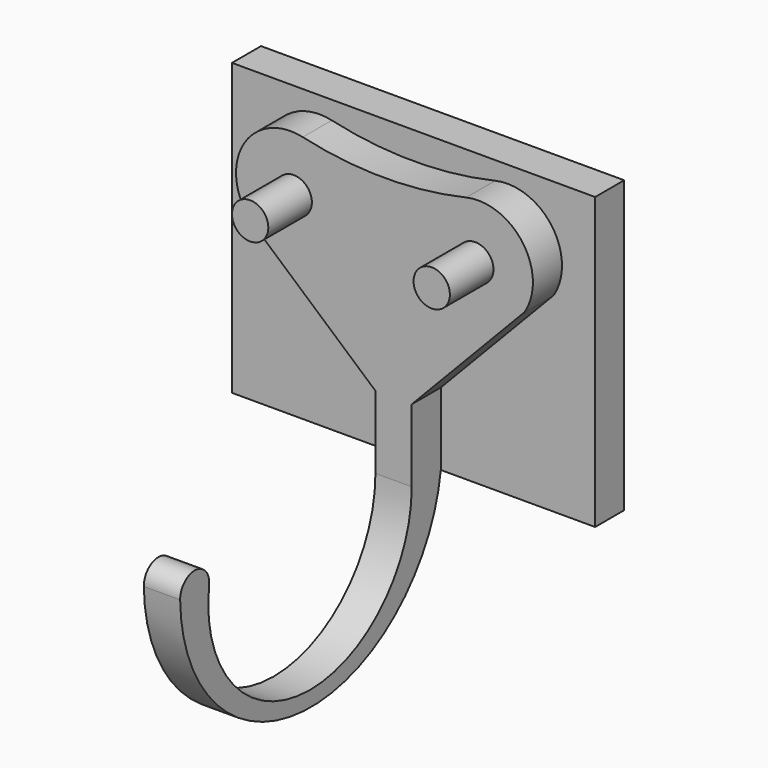
from build123d import *

# Parameters (mm, degrees)
SKETCH_W     = 20
SKETCH_H     = 16
PAD_DEPTH    = 2
PAD001_DEPTH = 2
SKETCH004_R  = 1
PAD002_DEPTH = 3
SKETCH005_W  = 2
SKETCH005_H  = 1
PAD003_DEPTH = 2
PAD004_DEPTH = 2


with BuildPart() as part:
    # Sketch → Pad (new body)
    with BuildSketch(Plane.XZ):
        with Locations((10, 8)):
            Rectangle(SKETCH_W, SKETCH_H)
    extrude(amount=PAD_DEPTH)

    # Sketch001 (on Face6 of Pad) → Pad001 (join)
    with BuildSketch(Plane.XZ.offset(2)):
        with BuildLine():
            ThreePointArc((17.72495, 10.5), (17.610738, 13.825239), (14.497831, 15))
            ThreePointArc((5.497831, 15), (9.997831, 14.487175), (14.497831, 15))
            ThreePointArc((5.497831, 15), (2.18979, 13.514663), (2.728727, 9.928732))
            Line((9.5, 4), (2.728727, 9.928732))
            Line((9.5, 4), (9.5, 1))
            Line((9.5, 1), (11.5, 1))
            Line((11.5, 1), (11.5, 4))
            Line((11.5, 4), (17.72495, 10.5))
        make_face()
    extrude(amount=PAD001_DEPTH)

    # Sketch004 (on Face15 of Pad001) → Pad002 (join)
    with BuildSketch(Plane.XZ.offset(4)):
        with Locations((5, 12)):
            Circle(SKETCH004_R)
        with Locations((15, 12)):
            Circle(SKETCH004_R)
    extrude(amount=PAD002_DEPTH)

    # Sketch005 (on Face5 of Pad002) → Pad003 (join)
    with BuildSketch(Plane.XZ.offset(2)):
        with Locations((10.5, 0.5)):
            Rectangle(SKETCH005_W, SKETCH005_H)
    extrude(amount=PAD003_DEPTH)

    # Sketch006 (on Face12 of Pad003) → Pad004 (join)
    with BuildSketch(Plane(origin=(9.5, 0, 0), x_dir=(0, 0, -1), z_dir=(-1, 0, 0))):
        with BuildLine():
            Line((0, 2), (0, 4))
            ThreePointArc((0, 4), (6.989376, 11.448896), (-0.888889, 17.950464))
            ThreePointArc((-1, 19.944272), (-2.015402, 18.887686), (-0.888889, 17.950464))
            ThreePointArc((0, 2), (7.851742, 11.437563), (-1, 19.944272))
        make_face()
    extrude(amount=-PAD004_DEPTH)


solid = part.part
